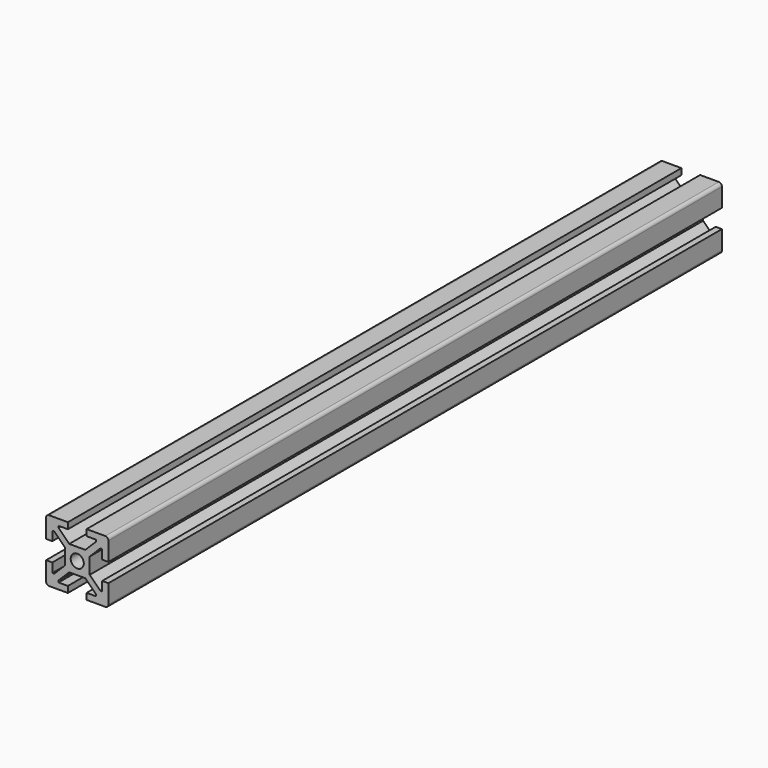
from build123d import *

# Parameters (mm, degrees)
SKETCH044_R          = 2.1
PAD023_DEPTH         = 123
SKETCH054_R          = 2.5
POCKET010_DEPTH      = 10.001
POCKET010_DEPTH_BACK = 10.001
SKETCH094_R          = 2.75
POCKET037_DEPTH      = 14.001
POCKET037_DEPTH_BACK = 6.001


with BuildPart() as part:
    # Sketch044 → Pad023 (new body, symmetric)
    with BuildSketch(Plane.XZ):
        with BuildLine():
            Line((3, 10), (3, 8))
            Line((3, 8), (6, 8))
            Line((6, 8), (6, 7.414214))
            Line((6, 7.414214), (2.585786, 4))
            Line((2.585786, 4), (-2.585786, 4))
            Line((-2.585786, 4), (-6, 7.414214))
            Line((-6, 7.414214), (-6, 8))
            Line((-6, 8), (-3, 8))
            Line((-3, 8), (-3, 10))
            Line((-8.999982, 10), (-3, 10))
            ThreePointArc((-8.999982, 10), (-9.707108, 9.707105), (-10, 8.999978))
            Line((-10, 8.999978), (-10, 3))
            Line((-10, 3), (-8, 3))
            Line((-8, 3), (-8, 6))
            Line((-8, 6), (-7.414214, 6))
            Line((-7.414214, 6), (-4, 2.585786))
            Line((-4, 2.585786), (-4, -2.585786))
            Line((-4, -2.585786), (-7.414214, -6))
            Line((-7.414214, -6), (-8, -6))
            Line((-8, -6), (-8, -3))
            Line((-8, -3), (-10, -3))
            Line((-10, -3), (-10, -9))
            ThreePointArc((-10, -9), (-9.707101, -9.707113), (-8.999982, -10))
            Line((-8.999982, -10), (-3, -10))
            Line((-3, -10), (-3, -8))
            Line((-3, -8), (-6, -8))
            Line((-6, -7.414214), (-6, -8))
            Line((-2.585786, -4), (-6, -7.414214))
            Line((-2.585786, -4), (2.585786, -4))
            Line((2.585786, -4), (6, -7.414214))
            Line((6, -7.414214), (6, -8))
            Line((6, -8), (3, -8))
            Line((3, -8), (3, -10))
            Line((8.999986, -10), (3, -10))
            ThreePointArc((8.999986, -10), (9.707102, -9.707112), (10, -9))
            Line((10, -9), (10, -3))
            Line((10, -3), (8, -3))
            Line((8, -3), (8, -6))
            Line((8, -6), (7.414214, -6))
            Line((7.414214, -6), (4, -2.585786))
            Line((4, -2.585786), (4, 2.585786))
            Line((4, 2.585786), (7.414214, 6))
            Line((7.414214, 6), (8, 6))
            Line((8, 6), (8, 3))
            Line((8, 3), (10, 3))
            Line((10, 8.999978), (10, 3))
            ThreePointArc((10, 8.999978), (9.70711, 9.707104), (8.999986, 10))
            Line((8.999986, 10), (3, 10))
        make_face()
        Circle(SKETCH044_R, mode=Mode.SUBTRACT)
    extrude(amount=PAD023_DEPTH, both=True)

    # Sketch054 → Pocket010 (cut, two sides)
    with BuildSketch(Plane.YZ) as pocket010_sk:
        with Locations((-64, 0)):
            Circle(SKETCH054_R)
        with Locations((-113, 0)):
            Circle(SKETCH054_R)
        with Locations((113, 0)):
            Circle(SKETCH054_R)
    extrude(amount=-POCKET010_DEPTH, mode=Mode.SUBTRACT)
    extrude(pocket010_sk.sketch, amount=POCKET010_DEPTH_BACK, mode=Mode.SUBTRACT)

    # Sketch094 (on Face7 of Pad023) → Pocket037 (cut, two sides)
    with BuildSketch(Plane(origin=(0, 0, 4), x_dir=(-1, 0, 0), z_dir=(0, 0, 1))) as pocket037_sk:
        with Locations((0, 113)):
            Circle(SKETCH094_R)
        with Locations((0, -113)):
            Circle(SKETCH094_R)
    extrude(amount=-POCKET037_DEPTH, mode=Mode.SUBTRACT)
    extrude(pocket037_sk.sketch, amount=POCKET037_DEPTH_BACK, mode=Mode.SUBTRACT)


with BuildPart() as part_1:
    # Body024 placement: moved
    add(part.part.moved(Location((113, 0, -62))))


solid = part_1.part
